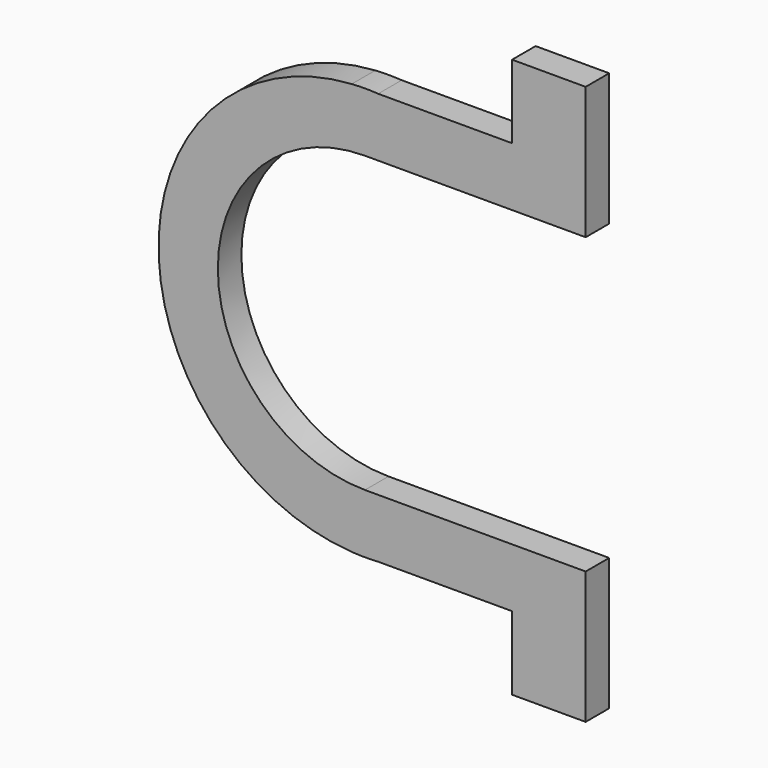
from build123d import *

# Parameters (mm, degrees)
F1_DEPTH = 25.4


with BuildPart() as f1:
    # F0 (on Front) → F1 (new body)
    with BuildSketch(Plane.XZ):
        with BuildLine():
            Line((-11.387531, 177.8), (11.387531, 177.8))
            ThreePointArc((11.387531, 177.8), (0, 178.164295), (-11.387531, 177.8))
        make_face()
        with BuildLine():
            Line((11.387531, -177.8), (-11.387531, -177.8))
            ThreePointArc((-11.387531, -177.8), (0, -178.164295), (11.387531, -177.8))
        make_face()
        with BuildLine():
            Line((127, 241.3), (127, 177.8))
            Line((127, 177.8), (11.387531, 177.8))
            Line((11.387531, 177.8), (-11.387531, 177.8))
            ThreePointArc((-11.387531, 177.8), (-178.164295, 0), (-11.387531, -177.8))
            Line((-11.387531, -177.8), (11.387531, -177.8))
            Line((11.387531, -177.8), (127, -177.8))
            Line((127, -177.8), (127, -241.3))
            Line((127, -241.3), (190.5, -241.3))
            Line((190.5, -241.3), (190.5, -177.8))
            Line((190.5, -177.8), (190.5, -127))
            Line((190.5, -127), (127, -127))
            Line((127, -127), (0, -127))
            ThreePointArc((0, -127), (-127, 0), (0, 127))
            Line((0, 127), (127, 127))
            Line((127, 127), (190.5, 127))
            Line((190.5, 127), (190.5, 177.8))
            Line((190.5, 177.8), (190.5, 241.3))
            Line((190.5, 241.3), (127, 241.3))
        make_face()
    extrude(amount=F1_DEPTH)


solid = f1.part
